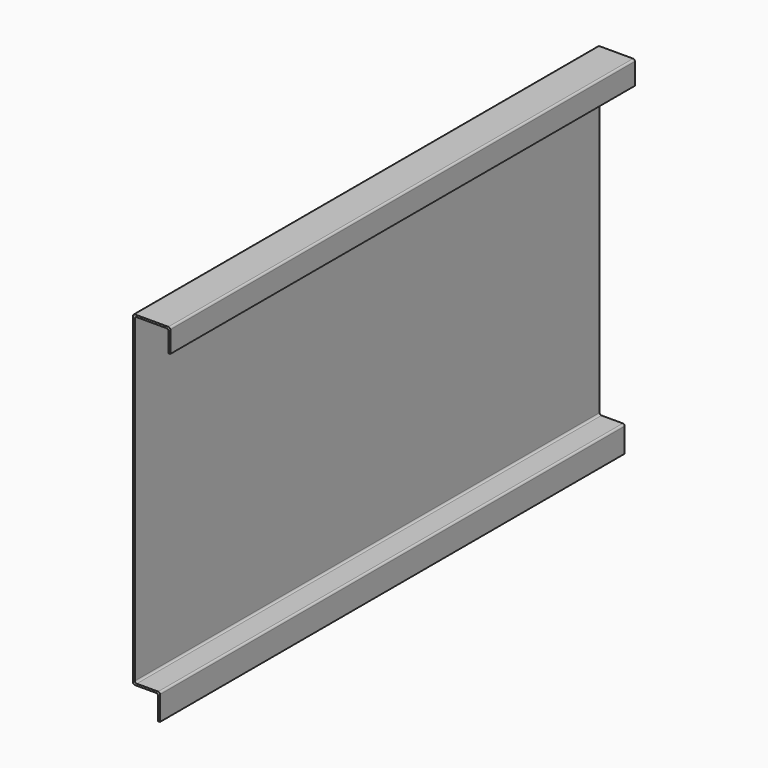
from build123d import *

# Parameters (mm, degrees)
F3_R = 2


with BuildPart() as f2:
    # F2: sweep along a path in F1
    with BuildLine(Plane.XY) as f2_path:
        Line((0, 0), (0, 623))
    # F0 (on Front) → F2 (sweep)
    with BuildSketch(Plane.XZ):
        Polygon((40, 0), (0, 0), (0, -350), (27, -350), (27, -376), (29, -376), (29, -348), (2, -348), (2, -2), (38, -2), (38, -25), (40, -25), align=None)
    sweep(path=f2_path.line)

    # F3
    f3_edges = [f2.edges().sort_by_distance(p)[0] for p in [
        (40, 311.5, 0),
        (0, 311.5, 0),
        (29, 311.5, -348),
        (2, 311.5, -348),
        (2, 311.5, -2),
        (38, 311.5, -2),
        (27, 311.5, -350),
        (0, 311.5, -350),
    ]]
    fillet(f3_edges, radius=F3_R)


solid = f2.part
